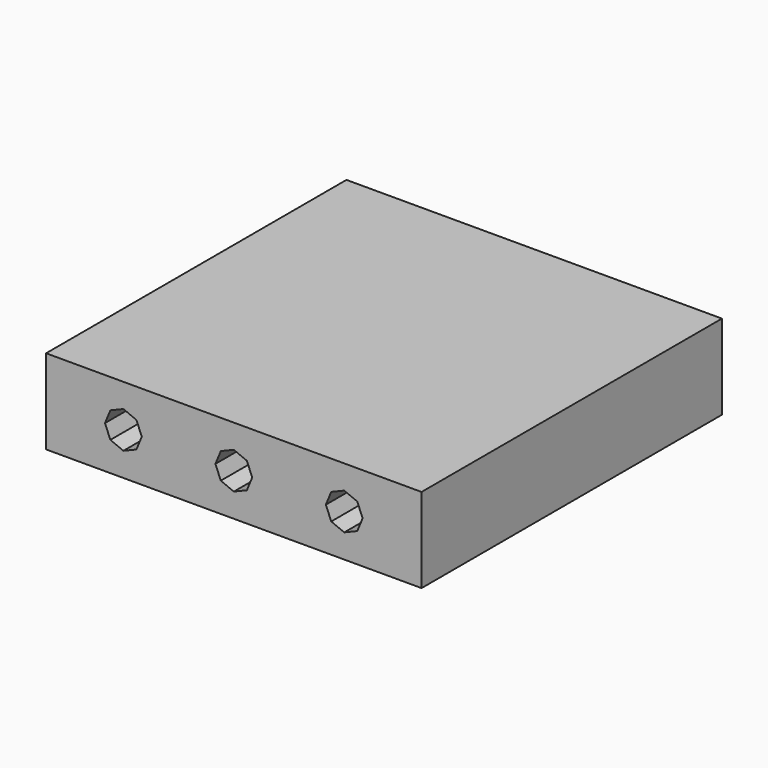
from build123d import *

# Parameters (mm, degrees)
F0_W     = 102
F0_H     = 23
F1_DEPTH = 51
F3_DEPTH = 10
F5_DEPTH = 10


with BuildPart() as f1:
    # F0 (on Right) → F1 (new body, symmetric)
    with BuildSketch(Plane.YZ):
        Rectangle(F0_W, F0_H)
    extrude(amount=F1_DEPTH, both=True)

    # F2 (on face) → F3 (cut)
    with BuildSketch(Plane.XZ.offset(51)):
        Polygon((3.535534, -3.535534), (5, 0), (3.535534, 3.535534), (0, 5), (-3.535534, 3.535534), (-5, 0), (-3.535534, -3.535534), (0, -5), align=None)
        Polygon((33.535534, 3.535534), (30, 5), (26.464466, 3.535534), (25, 0), (26.464466, -3.535534), (30, -5), (33.535534, -3.535534), (35, 0), align=None)
        Polygon((-26.464466, 3.535534), (-30, 5), (-33.535534, 3.535534), (-35, 0), (-33.535534, -3.535534), (-30, -5), (-26.464466, -3.535534), (-25, 0), align=None)
    extrude(amount=-F3_DEPTH, mode=Mode.SUBTRACT)

    # F4 (on face) → F5 (cut)
    with BuildSketch(Plane(origin=(-51, 0, 0), x_dir=(0, -1, 0), z_dir=(-1, 0, 0))):
        Polygon((3.535534, -3.535534), (5, 0), (3.535534, 3.535534), (0, 5), (-3.535534, 3.535534), (-5, 0), (-3.535534, -3.535534), (0, -5), align=None)
        Polygon((30, 5), (26.464466, 3.535534), (25, 0), (26.464466, -3.535534), (30, -5), (33.535534, -3.535534), (35, 0), (33.535534, 3.535534), align=None)
        Polygon((-25, 0), (-26.464466, 3.535534), (-30, 5), (-33.535534, 3.535534), (-35, 0), (-33.535534, -3.535534), (-30, -5), (-26.464466, -3.535534), align=None)
    extrude(amount=-F5_DEPTH, mode=Mode.SUBTRACT)


with BuildPart() as f6_1:
    # F6: copy of F1
    add(f1.part)


solid = f1.part
